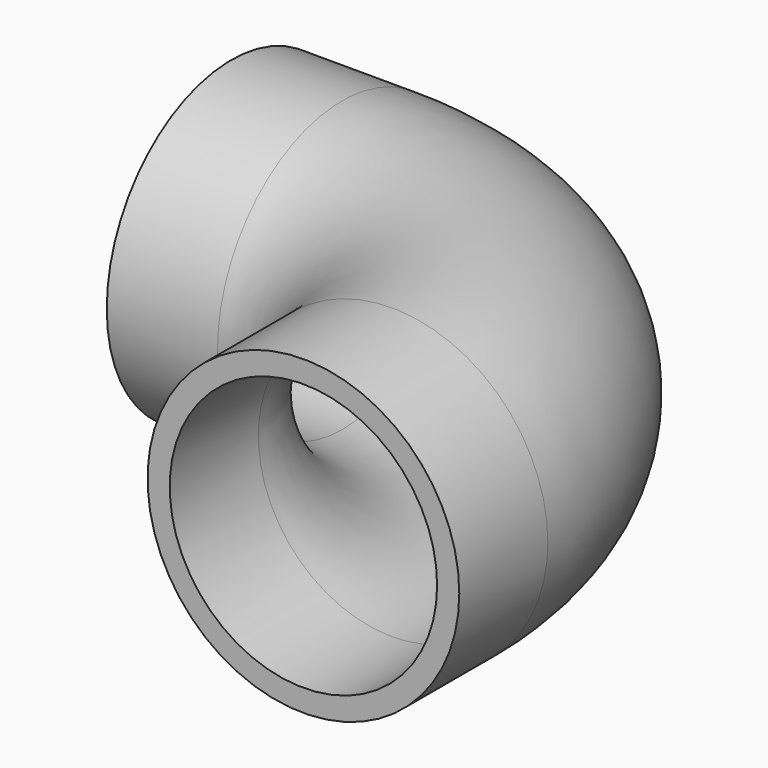
from build123d import *

# Parameters (mm, degrees)
F1_R        = 28.15
F1_R_2      = 24.15
F2_FACE_R   = 28.15
F2_FACE_R_2 = 24.15


with BuildPart() as f2:
    # F2: sweep along a path in F0
    with BuildLine(Plane.XY) as f2_path:
        ThreePointArc((0, 25), (17.6776695297, 17.6776695297), (25, 0))
        Line((25, 0), (25, -20))
    # F1 (on Right) → F2 (sweep)
    with BuildSketch(Plane.YZ):
        with Locations((45, 0)):
            Circle(F1_R)
        with Locations((45, 0)):
            Circle(F1_R_2, mode=Mode.SUBTRACT)
    sweep(path=f2_path.line)

    # F3: sweep along a path in F0
    with BuildLine(Plane.XY) as f3_path:
        Line((0, 25), (-20, 25))
    # F2_face (on face) → F3 (sweep)
    with BuildSketch(Plane(origin=(0, 45, 0), x_dir=(0, -1, 0), z_dir=(-1, 0, 0))):
        Circle(F2_FACE_R)
        Circle(F2_FACE_R_2, mode=Mode.SUBTRACT)
    sweep(path=f3_path.line)


solid = f2.part
